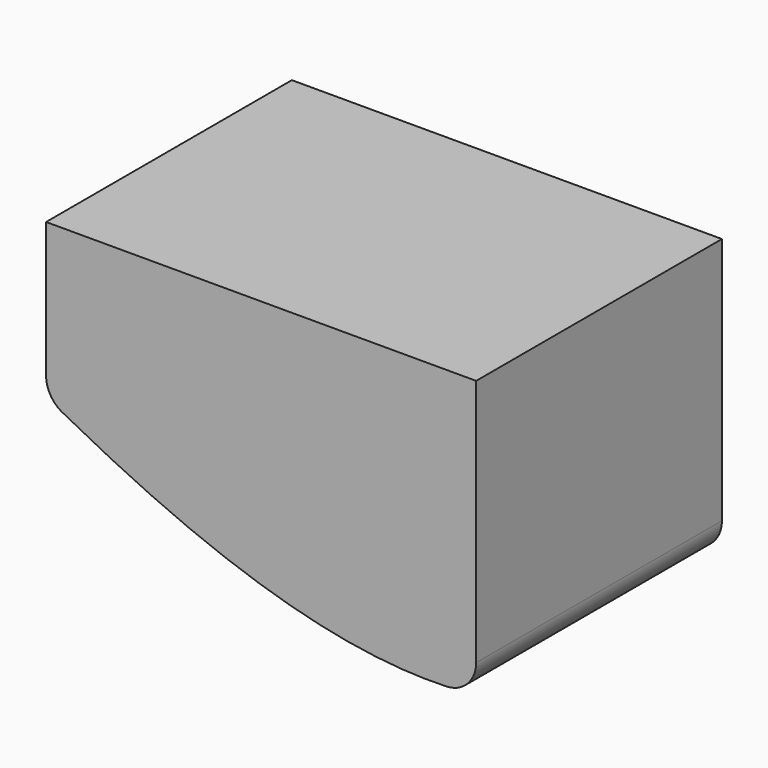
from build123d import *

# Parameters (mm, degrees)
F1_DEPTH = 50
F2_R     = 5


with BuildPart() as f1:
    # F0 (on Front) → F1 (new body)
    with BuildSketch(Plane.XZ):
        with BuildLine():
            Line((0, 25), (0, 0))
            add(Edge.make_bspline(
                [(0, 0), (20.987207, -11.392305), (46.420965, -22.698272), (70, -20)],
                knots=[0, 0, 0, 0, 72.801099, 72.801099, 72.801099, 72.801099], degree=3))
            Line((70, -20), (70, 25))
            Line((70, 25), (0, 25))
        make_face()
    extrude(amount=F1_DEPTH)

    # F2
    f2_edges = [f1.edges().sort_by_distance(p)[0] for p in [
        (70, -25, -20),
        (0, -25, 0),
    ]]
    fillet(f2_edges, radius=F2_R)


solid = f1.part
